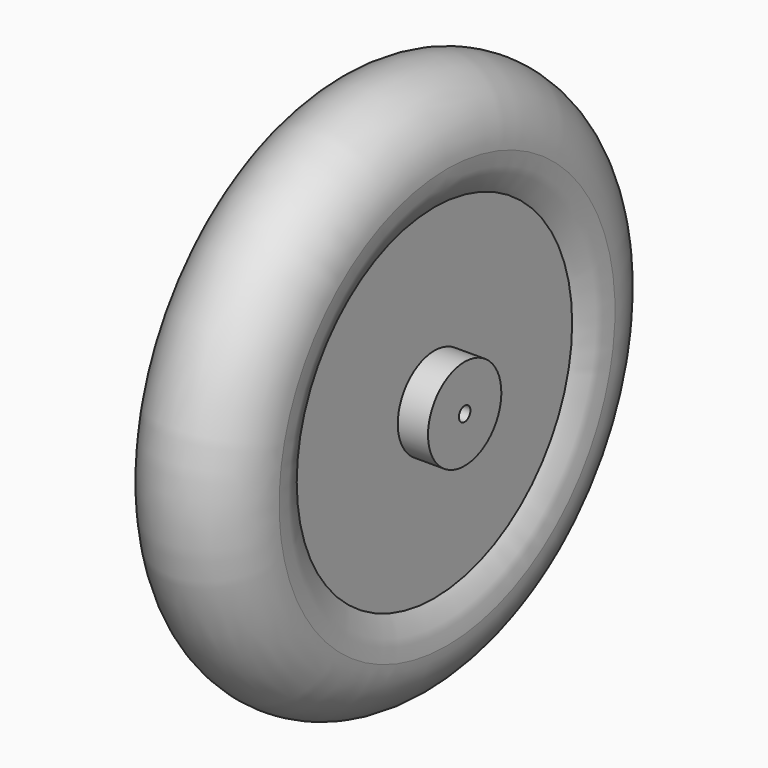
from build123d import *

# Parameters (mm, degrees)
F3_DEPTH = 25


with BuildPart() as f1:
    # F0 (on Front) → F1 (revolve)
    with BuildSketch(Plane.XZ):
        with BuildLine():
            Line((-96, 54.58075), (-96, 8.58075))
            Line((-96, 8.58075), (96, 8.58075))
            Line((96, 8.58075), (96, 54.58075))
            Line((96, 54.58075), (60, 54.58075))
            Line((60, 54.58075), (60, 205))
            ThreePointArc((60, 205), (0, 175), (-60, 205))
            Line((-60, 205), (-60, 54.58075))
            Line((-60, 54.58075), (-96, 54.58075))
        make_face()
        with BuildLine():
            ThreePointArc((75, 250), (-23.717082, 321.151247), (-60, 205))
            ThreePointArc((-60, 205), (0, 175), (60, 205))
            ThreePointArc((60, 205), (71.151247, 226.282918), (75, 250))
        make_face()
    revolve(axis=Axis((0, 0, 0), (1, 0, 0)))

    # F2 (on face) → F3 (join)
    with BuildSketch(Plane(origin=(-60, 0, 0), x_dir=(0, -1, 0), z_dir=(-1, 0, 0))):
        with BuildLine():
            ThreePointArc((-54.100605, 185.262313), (-60.432679, 179.731135), (-60.307153, 171.324392))
            Line((-60.307153, 171.324392), (-12.55207, 72.159939))
            ThreePointArc((-12.55207, 72.159939), (-8.665392, 67.910717), (-3.079813, 66.509481))
            ThreePointArc((-3.079813, 66.509481), (0, 66.58075), (3.079813, 66.509481))
            ThreePointArc((3.079813, 66.509481), (8.665392, 67.910717), (12.55207, 72.159939))
            Line((12.55207, 72.159939), (60.307153, 171.324392))
            ThreePointArc((60.307153, 171.324392), (60.432679, 179.731135), (54.100605, 185.262313))
            ThreePointArc((54.100605, 185.262313), (0, 193), (-54.100605, 185.262313))
        make_face()
    extrude(amount=-F3_DEPTH)


solid = f1.part
